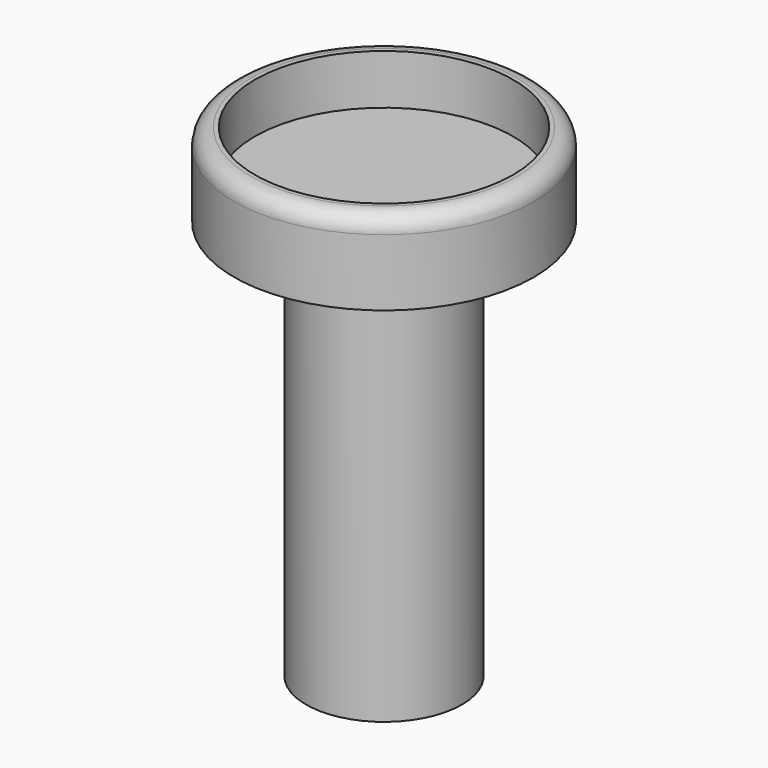
from build123d import *

# Parameters (mm, degrees)
F0_R     = 4.675
F1_DEPTH = 24
F2_R     = 9
F3_DEPTH = 5
F4_R     = 7.75
F5_DEPTH = 3
F6_R     = 1


with BuildPart() as f1:
    # F0 (on Top) → F1 (new body)
    with BuildSketch(Plane.XY):
        Circle(F0_R)
    extrude(amount=F1_DEPTH)

    # F2 (on face) → F3 (join)
    with BuildSketch(Plane.XY.offset(24)):
        Circle(F2_R)
    extrude(amount=F3_DEPTH)

    # F4 (on face) → F5 (cut)
    with BuildSketch(Plane.XY.offset(29)):
        Circle(F4_R)
    extrude(amount=-F5_DEPTH, mode=Mode.SUBTRACT)

    # F6
    f6_edges = [f1.edges().sort_by_distance(p)[0] for p in [
        (-9, 0, 29),
    ]]
    fillet(f6_edges, radius=F6_R)


solid = f1.part
